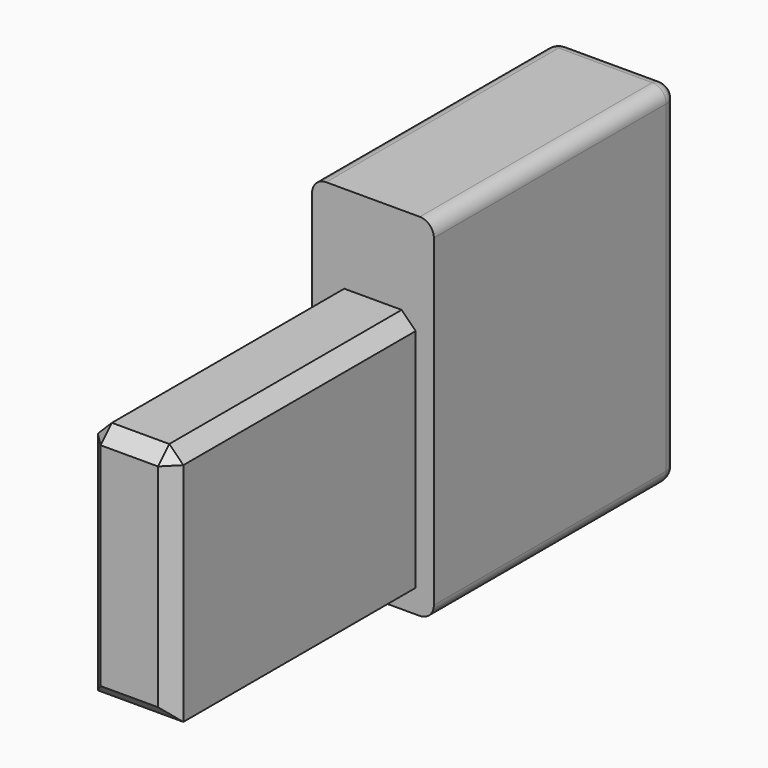
from build123d import *

# Parameters (mm, degrees)
F1_DEPTH = 10.4
F2_W     = 7.3
F2_H     = 20.5
F3_DEPTH = 26
F4_R     = 1.2
F5_SIZE  = 1.2


with BuildPart() as f1:
    # F0 (on Right) → F1 (new body)
    with BuildSketch(Plane.YZ):
        Polygon((0, 7.5), (0, 0), (26, 0), (26, 30), (0, 30), (0, 28), align=None)
    extrude(amount=F1_DEPTH)

    # F2 (on face) → F3 (join)
    with BuildSketch(Plane.XZ):
        with Locations((5.2, 12.25)):
            Rectangle(F2_W, F2_H)
    extrude(amount=F3_DEPTH)

    # F4
    f4_edges = [f1.edges().sort_by_distance(p)[0] for p in [
        (5.2, 26, 0),
        (5.2, 26, 30),
        (0, 26, 15),
        (10.4, 26, 15),
        (0, 13, 0),
        (10.4, 13, 0),
        (0, 13, 30),
        (10.4, 13, 30),
    ]]
    fillet(f4_edges, radius=F4_R)

    # F5
    f5_edges = [f1.edges().sort_by_distance(p)[0] for p in [
        (1.55, -26, 12.25),
        (8.85, -26, 12.25),
        (8.85, -13, 22.5),
        (1.55, -13, 22.5),
        (5.2, -26, 22.5),
        (5.2, -26, 2),
    ]]
    chamfer(f5_edges, length=F5_SIZE)


solid = f1.part
